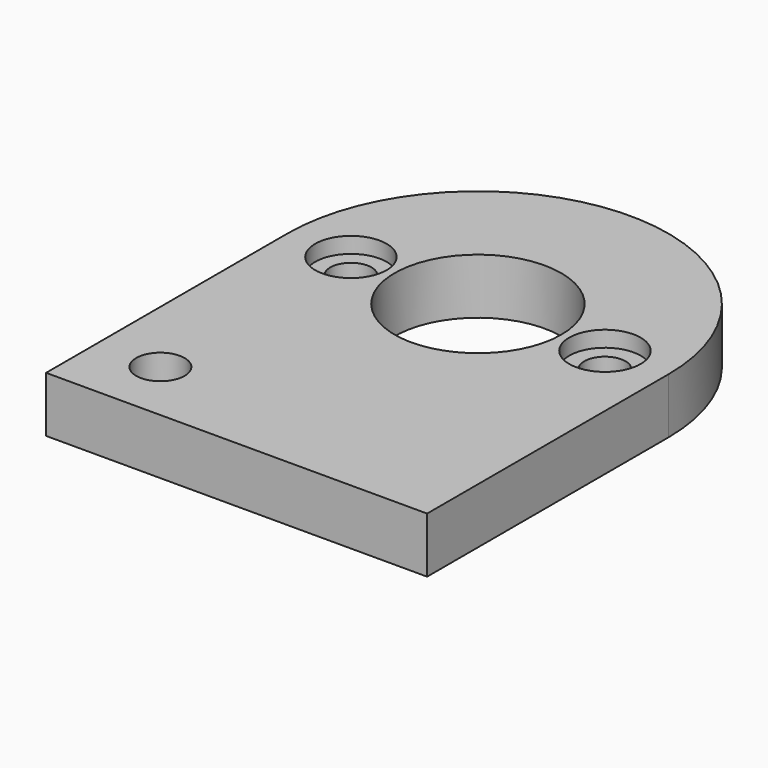
from build123d import *

# Parameters (mm, degrees)
F0_R     = 1.525
F0_R_2   = 1.3
F0_R_3   = 5.25
F1_DEPTH = 3.5
F2_R     = 2.25
F3_DEPTH = 1


with BuildPart() as f1:
    # F0 (on Top) → F1 (new body)
    with BuildSketch(Plane.XY):
        with BuildLine():
            Line((-12, 9.5), (-12, -9.5))
            Line((-12, -9.5), (12, -9.5))
            Line((12, -9.5), (12, 9.5))
            ThreePointArc((12, 9.5), (0, 21.5), (-12, 9.5))
        make_face()
        with Locations((-8, -5.5)):
            Circle(F0_R, mode=Mode.SUBTRACT)
        with Locations((-8, 9.5)):
            Circle(F0_R_2, mode=Mode.SUBTRACT)
        with Locations((0, 9.5)):
            Circle(F0_R_3, mode=Mode.SUBTRACT)
        with Locations((8, 9.5)):
            Circle(F0_R_2, mode=Mode.SUBTRACT)
    extrude(amount=F1_DEPTH)

    # F2 (on face) → F3 (cut)
    with BuildSketch(Plane.XY.offset(3.5)):
        with Locations((-8, 9.5)):
            Circle(F2_R)
        with Locations((8, 9.5)):
            Circle(F2_R)
    extrude(amount=-F3_DEPTH, mode=Mode.SUBTRACT)


solid = f1.part
